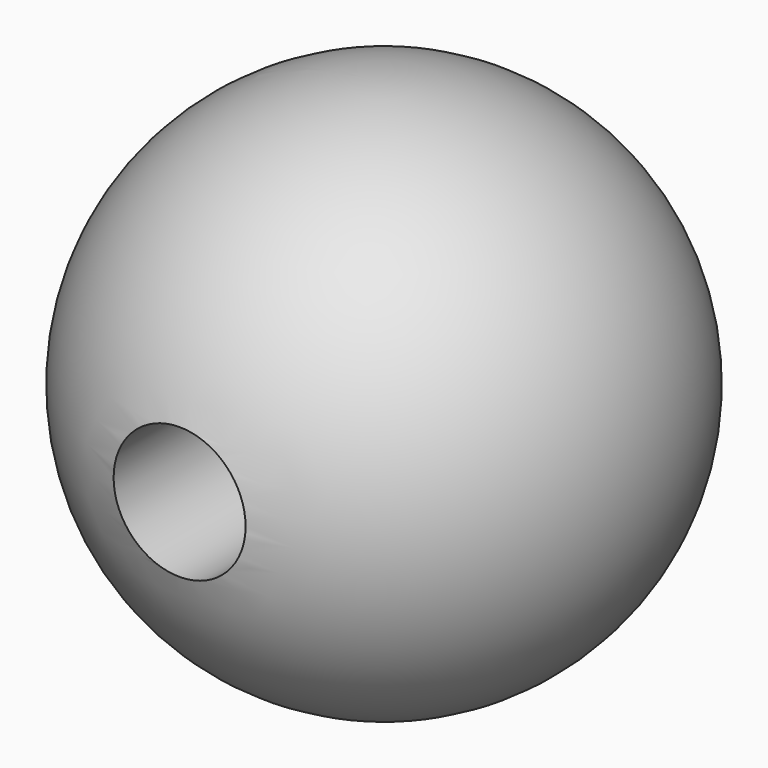
from build123d import *

# Parameters (mm, degrees)
F4_R     = 3.175
F5_DEPTH = 52.832


with BuildPart() as f2:
    # F0 (on Front) → F2 (revolve)
    with BuildSketch(Plane.XZ):
        with BuildLine():
            Line((0, -12.7), (0, 12.7))
            ThreePointArc((0, 12.7), (-12.7, 0), (0, -12.7))
        make_face()
    revolve(axis=Axis((0, 0, 0), (0, 0, 1)))

    # F4 (on Front) → F5 (cut)
    with BuildSketch(Plane.XZ):
        Circle(F4_R)
    extrude(amount=F5_DEPTH, mode=Mode.SUBTRACT)


solid = f2.part
